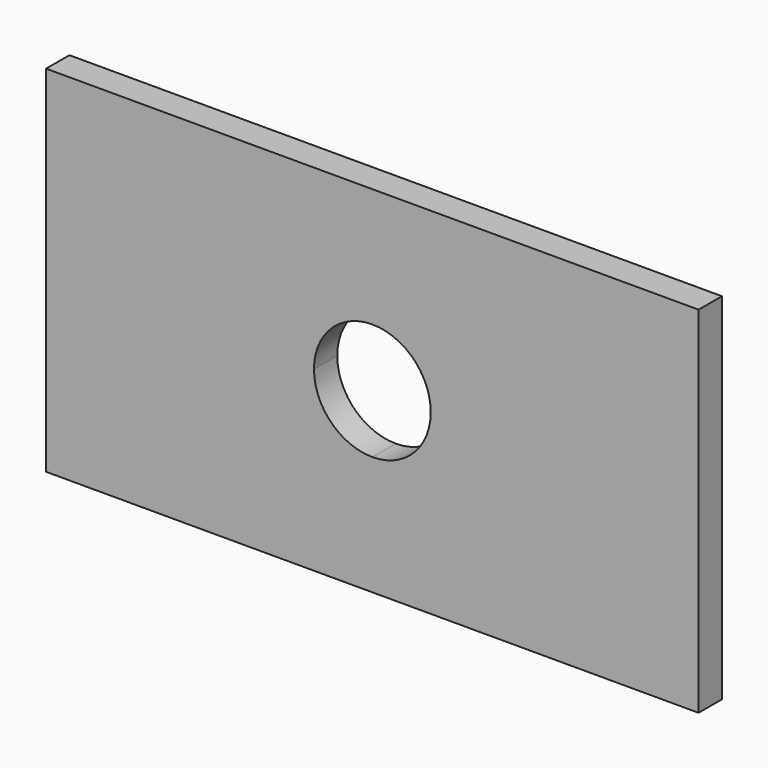
from build123d import *

# Parameters (mm, degrees)
F1_DEPTH = 25.4


with BuildPart() as f1:
    # F0 (on Front) → F1 (new body)
    with BuildSketch(Plane.XZ):
        with BuildLine():
            Line((-68.018332, -78.135371), (216.249079, -78.135371))
            Line((216.249079, -78.135371), (216.249079, 76.485276))
            Line((216.249079, 76.485276), (-17.158811, 76.485276))
            ThreePointArc((-17.158811, 76.485276), (-32.05522, 40.522164), (-68.018332, 25.625755))
            Line((-68.018332, 25.625755), (-68.018332, -78.135371))
        make_face()
        with BuildLine():
            Line((-352.285743, -78.135371), (-68.018332, -78.135371))
            Line((-68.018332, -78.135371), (-68.018332, 25.625755))
            ThreePointArc((-68.018332, 25.625755), (-103.981444, 40.522164), (-118.877853, 76.485276))
            Line((-118.877853, 76.485276), (-352.285743, 76.485276))
            Line((-352.285743, 76.485276), (-352.285743, -78.135371))
        make_face()
        with BuildLine():
            Line((-17.158811, 76.485276), (216.249079, 76.485276))
            Line((216.249079, 76.485276), (216.249079, 231.105924))
            Line((216.249079, 231.105924), (-68.018332, 231.105924))
            Line((-68.018332, 231.105924), (-68.018332, 127.344797))
            ThreePointArc((-68.018332, 127.344797), (-32.05522, 112.448389), (-17.158811, 76.485276))
        make_face()
        with BuildLine():
            Line((-352.285743, 231.105924), (-352.285743, 76.485276))
            Line((-352.285743, 76.485276), (-118.877853, 76.485276))
            ThreePointArc((-118.877853, 76.485276), (-103.981444, 112.448389), (-68.018332, 127.344797))
            Line((-68.018332, 127.344797), (-68.018332, 231.105924))
            Line((-68.018332, 231.105924), (-352.285743, 231.105924))
        make_face()
    extrude(amount=F1_DEPTH)


solid = f1.part
